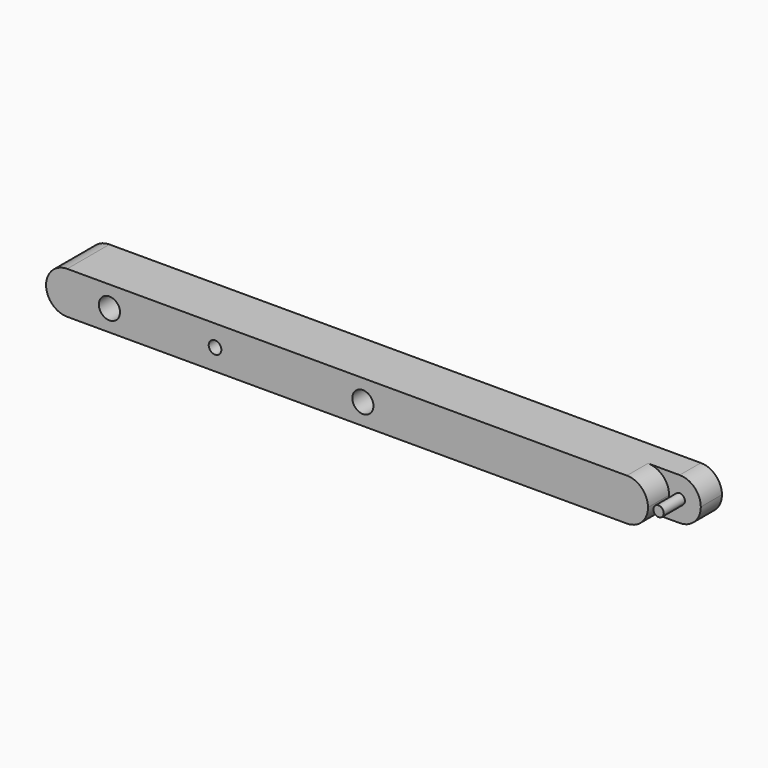
from build123d import *

# Parameters (mm, degrees)
F0_W     = 50
F0_H     = 10
F0_W_2   = 70
F1_DEPTH = 25
F0_R     = 2.4644634523
F2_DEPTH = 12.5
F3_D     = 10
F4_D     = 10
F5_D     = 6


with BuildPart() as f1:
    # F0 (on Front) → F1 (new body)
    with BuildSketch(Plane.XZ):
        with BuildLine():
            Line((98.3333257594, 10), (-26.6666742406, 10))
            Line((-26.6666742406, 10), (-26.6666742406, 0))
            Line((-26.6666742406, 0), (-26.6666742406, -10))
            Line((-26.6666742406, -10), (98.3333257594, -10))
            ThreePointArc((98.3333257594, -10), (105.4043935713, -7.0710678119), (108.3333257594, 0))
            ThreePointArc((108.3333257594, 0), (105.4043935713, 7.0710678119), (98.3333257594, 10))
        make_face()
        with BuildLine():
            Line((-146.6666742406, 10), (-166.6666742406, 10))
            ThreePointArc((-166.6666742406, 10), (-173.7377420524, 7.0710678119), (-176.6666742406, 0))
            Line((-176.6666742406, 0), (-146.6666742406, 0))
            Line((-146.6666742406, 0), (-146.6666742406, 10))
        make_face()
        with BuildLine():
            Line((-146.6666742406, 0), (-176.6666742406, 0))
            ThreePointArc((-176.6666742406, 0), (-173.7377420524, -7.0710678119), (-166.6666742406, -10))
            Line((-166.6666742406, -10), (-146.6666742406, -10))
            Line((-146.6666742406, -10), (-146.6666742406, 0))
        make_face()
        with Locations((-121.6666742406, -5)):
            Rectangle(F0_W, F0_H)
        with Locations((-61.6666742406, -5)):
            Rectangle(F0_W_2, F0_H)
        with Locations((-121.6666742406, 5)):
            Rectangle(F0_W, F0_H)
        with Locations((-61.6666742406, 5)):
            Rectangle(F0_W_2, F0_H)
    extrude(amount=F1_DEPTH)



with BuildPart() as f1b:
    # F0 (on Front) → F1, piece 2 (new body)
    with BuildSketch(Plane.XZ):
        with Locations((113.3333257594, 0)):
            Circle(F0_R)
    extrude(amount=F1_DEPTH)


with BuildPart() as f1_1:
    add(f1.part)

    add(f1b.part)  # F2 merges F1b
    # F0 (on Front) → F2 (join)
    with BuildSketch(Plane.XZ):
        with BuildLine():
            Line((113.3333257594, 10), (98.3333257594, 10))
            ThreePointArc((98.3333257594, 10), (105.4043935713, 7.0710678119), (108.3333257594, 0))
            ThreePointArc((108.3333257594, 0), (105.4043935713, -7.0710678119), (98.3333257594, -10))
            Line((98.3333257594, -10), (113.3333257594, -10))
            ThreePointArc((113.3333257594, -10), (120.4043935713, -7.0710678119), (123.3333257594, 0))
            ThreePointArc((123.3333257594, 0), (120.4043935713, 7.0710678119), (113.3333257594, 10))
        make_face()
        with Locations((113.3333257594, 0)):
            Circle(F0_R, mode=Mode.SUBTRACT)
    extrude(amount=F2_DEPTH)

    # F3 (through all)
    with Locations(Plane(origin=(0, 0, 0), x_dir=(1, 0, 0), z_dir=(0, 1, 0))):
        with Locations((-146.6666742406, 0)):
            Hole(F3_D / 2)

    # F4 (through all)
    with Locations(Plane(origin=(0, 0, 0), x_dir=(1, 0, 0), z_dir=(0, 1, 0))):
        with Locations((-26.6666742406, 0)):
            Hole(F4_D / 2)

    # F5 (through all)
    with Locations(Plane(origin=(0, 0, 0), x_dir=(1, 0, 0), z_dir=(0, 1, 0))):
        with Locations((-96.6666742406, 0)):
            Hole(F5_D / 2)


solid = f1_1.part
